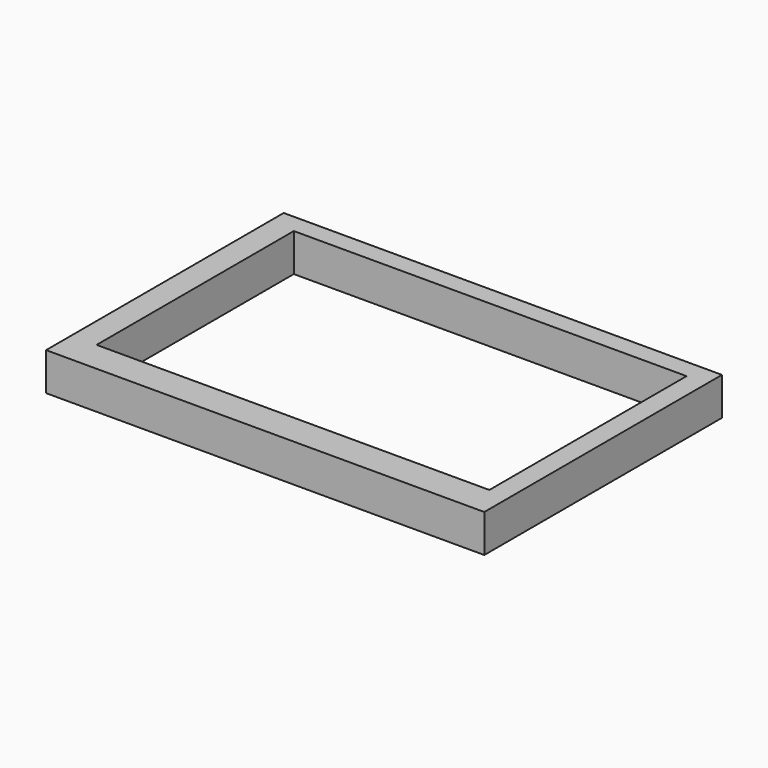
from build123d import *

# Parameters (mm, degrees)
F3_W     = 173.5
F3_H     = 117.6
F4_DEPTH = 15
F2_W     = 155.5
F2_H     = 97.6
F5_DEPTH = 15
F1_W     = 161.5
F1_H     = 105.6
F6_DEPTH = 13


with BuildPart() as f4:
    # F3 (on face) → F4 (new body)
    with BuildSketch(Plane.XY):
        Rectangle(F3_W, F3_H)
    extrude(amount=F4_DEPTH)

    # F2 (on face) → F5 (cut)
    with BuildSketch(Plane.XY):
        with Locations((1, 2.5)):
            Rectangle(F2_W, F2_H)
    extrude(amount=F5_DEPTH, mode=Mode.SUBTRACT)

    # F1 (on Top) → F6 (cut)
    with BuildSketch(Plane.XY):
        Rectangle(F1_W, F1_H)
    extrude(amount=-F6_DEPTH, mode=Mode.SUBTRACT)


solid = f4.part
